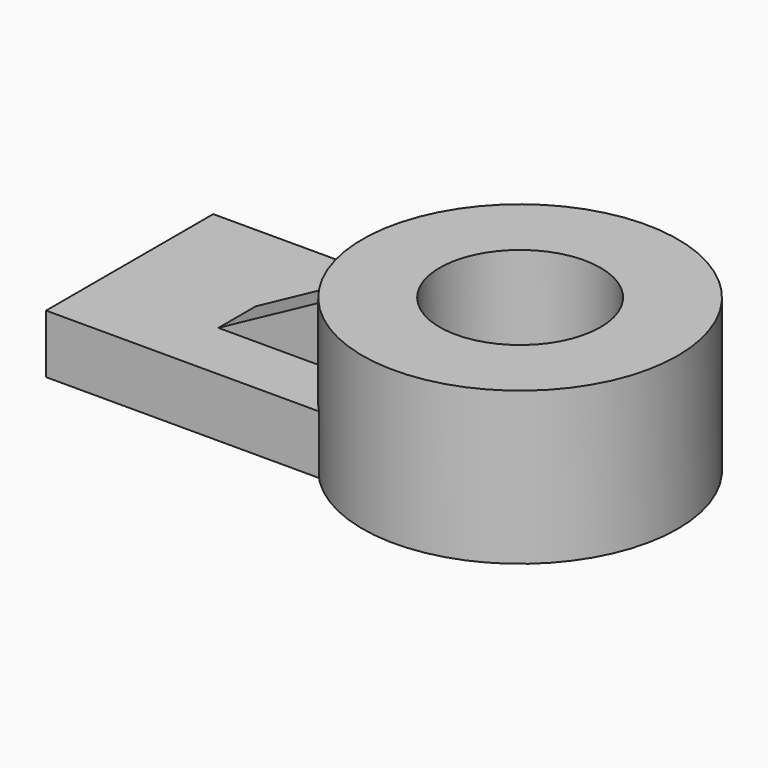
from build123d import *

# Parameters (mm, degrees)
F0_W     = 120.531016
F0_H     = 89.088138
F1_DEPTH = 25
F3_DEPTH = 20
F4_R     = 67.238267
F4_R_2   = 34.306256
F5_DEPTH = 65


with BuildPart() as f1:
    # F0 (on Top) → F1 (new body)
    with BuildSketch(Plane.XY):
        with Locations((-64.431909, -1.438359)):
            Rectangle(F0_W, F0_H)
    extrude(amount=F1_DEPTH)


with BuildPart() as f3:
    # F2 (on Front) → F3 (new body)
    with BuildSketch(Plane.XZ):
        Polygon((-4.311388, 61.895236), (-72.013728, 25.069697), (-4.311388, 25.069697), align=None)
    extrude(amount=F3_DEPTH)


with BuildPart() as f5:
    # F4 (on Top) → F5 (new body)
    with BuildSketch(Plane.XY):
        with Locations((40.667694, 0)):
            Circle(F4_R)
        with Locations((40.667694, 0)):
            Circle(F4_R_2, mode=Mode.SUBTRACT)
    extrude(amount=F5_DEPTH)


solid = Compound([f1.part, f3.part, f5.part])
